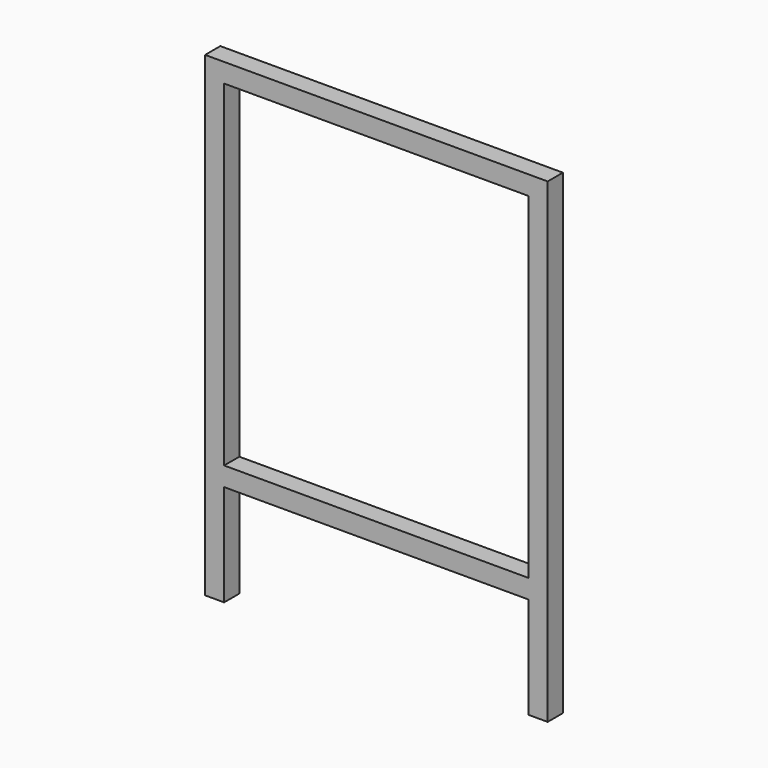
from build123d import *

# Parameters (mm, degrees)
F0_W     = 609.6
F0_H     = 38.1
F1_DEPTH = 38.1


with BuildPart() as f1:
    # F0 (on Front) → F1 (new body)
    with BuildSketch(Plane.XZ):
        Polygon((-577.748908, 420.702849), (-577.748908, 382.602849), (-539.648908, 382.602849), (69.951092, 382.602849), (108.051092, 382.602849), (108.051092, 420.702849), align=None)
        Polygon((-577.748908, 382.602849), (-577.748908, -531.797151), (-539.648908, -531.797151), (-539.648908, -328.597151), (-539.648908, -290.497151), (-539.648908, 382.602849), align=None)
        Polygon((69.951092, -290.497151), (69.951092, -328.597151), (69.951092, -531.797151), (108.051092, -531.797151), (108.051092, 382.602849), (69.951092, 382.602849), align=None)
        with Locations((-234.848908, -309.547151)):
            Rectangle(F0_W, F0_H)
    extrude(amount=F1_DEPTH)


solid = f1.part
